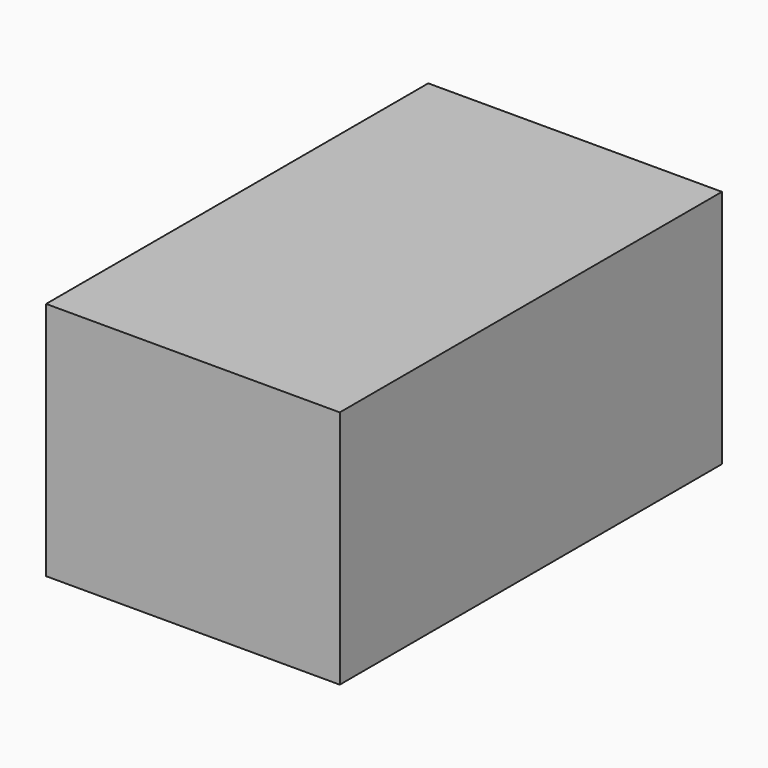
from build123d import *

# Parameters (mm, degrees)
F1_W     = 31.118542
F1_H     = 50.614901
F2_DEPTH = 25.4


with BuildPart() as f2:
    # F1 (on face) → F2 (new body)
    with BuildSketch(Plane.XY):
        with Locations((15.559271, 25.30745)):
            Rectangle(F1_W, F1_H)
    extrude(amount=F2_DEPTH)


solid = f2.part
